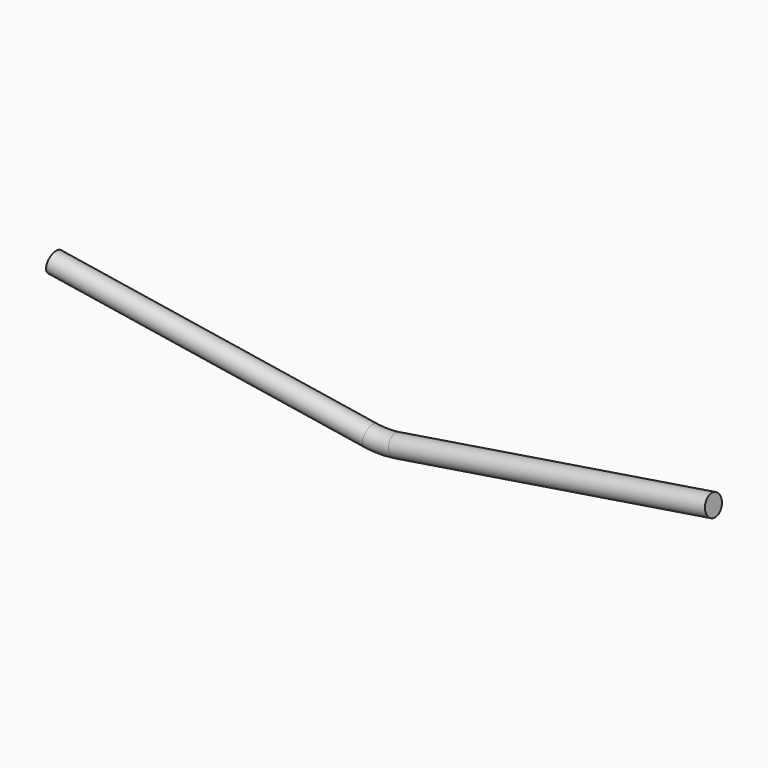
from build123d import *

# Parameters (mm, degrees)
F2_R = 6.35


with BuildPart() as f4:
    # F4: sweep along a path in F3
    with BuildLine(Plane.XZ) as f4_path:
        Line((-200.698271, 31.787483), (-7.946871, 1.258661))
        ThreePointArc((-7.946871, 1.258661), (0, 0.633228), (7.946871, 1.258661))
        Line((7.946871, 1.258661), (200.698271, 31.787483))
    # F2 (on face) → F4 (sweep)
    with BuildSketch(Plane(origin=(-200.698271, 0, 31.787483), x_dir=(0, 1, 0), z_dir=(0.987688, 0, -0.156434))):
        Circle(F2_R)
    sweep(path=f4_path.line)


solid = f4.part
